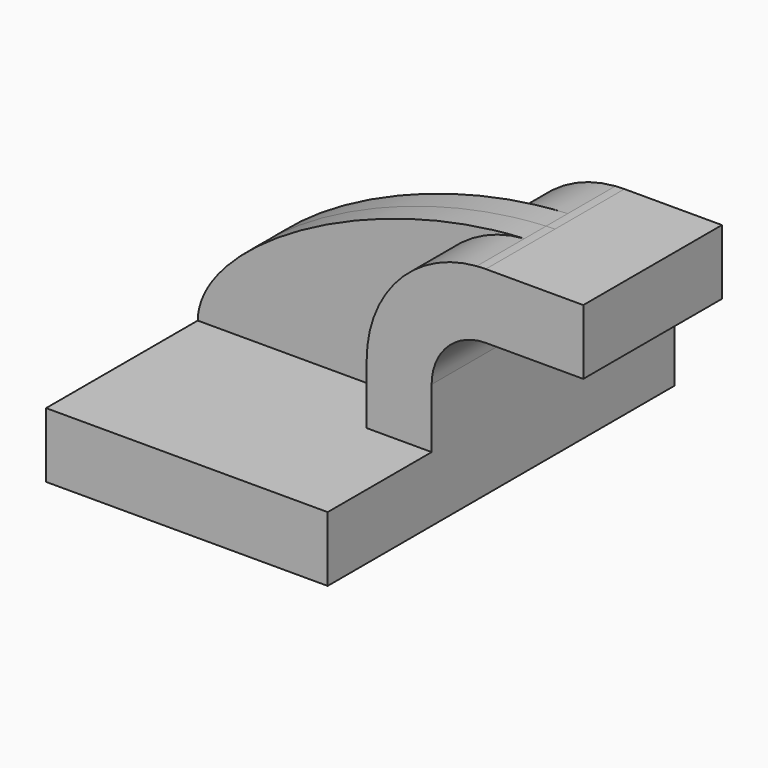
from build123d import *

# Parameters (mm, degrees)
F1_DEPTH = 63.5
F0_W     = 25.4
F0_H     = 19.05
F2_DEPTH = 25.4
F3_DEPTH = 7.9375


with BuildPart() as f1:
    # F0 (on Front) → F1 (new body, symmetric)
    with BuildSketch(Plane.XZ):
        Polygon((22.225, 9.525), (-41.275, 9.525), (-41.275, -9.525), (41.275, -9.525), (41.275, 9.525), align=None)
    extrude(amount=F1_DEPTH, both=True)

    # F0 (on Front) → F2 (join, symmetric)
    with BuildSketch(Plane.XZ):
        with BuildLine():
            Line((22.225, 27.0002), (22.225, 9.525))
            Line((22.225, 9.525), (41.275, 9.525))
            Line((41.275, 9.525), (41.275, 27.0002))
            ThreePointArc((41.275, 27.0002), (45.9246798487, 38.2255201513), (57.15, 42.8752))
            Line((57.15, 42.8752), (60.325, 42.8752))
            Line((60.325, 42.8752), (60.325, 61.9252))
            Line((60.325, 61.9252), (57.15, 61.9252))
            add(Edge.make_bspline(
                [(54.5051235228, 61.8249075138), (55.3877284617, 61.8679154461), (56.2694699988, 61.9014230074), (57.15, 61.9252)],
                knots=[109.4292782466, 109.4292782466, 109.4292782466, 109.4292782466, 111.5045361635, 111.5045361635, 111.5045361635, 111.5045361635], degree=3))
            ThreePointArc((54.5051235228, 61.8249075138), (31.5362543156, 50.7423914957), (22.225, 27.0002))
        make_face()
        with Locations((73.025, 52.4002)):
            Rectangle(F0_W, F0_H)
    extrude(amount=F2_DEPTH, both=True)

    # F0 (on Front) → F3 (join, symmetric)
    with BuildSketch(Plane.XZ):
        with BuildLine():
            add(Edge.make_bspline(
                [(-41.275, 9.525), (-40.9758715935, 30.8734704245), (7.9649702933, 59.5570800062), (54.5051235228, 61.8249075138)],
                knots=[0, 0, 0, 0, 109.4292782466, 109.4292782466, 109.4292782466, 109.4292782466], degree=3))
            Line((-41.275, 9.525), (22.225, 9.525))
            Line((22.225, 9.525), (22.225, 27.0002))
            ThreePointArc((22.225, 27.0002), (31.5362543156, 50.7423914957), (54.5051235228, 61.8249075138))
        make_face()
    extrude(amount=F3_DEPTH, both=True)


solid = f1.part
